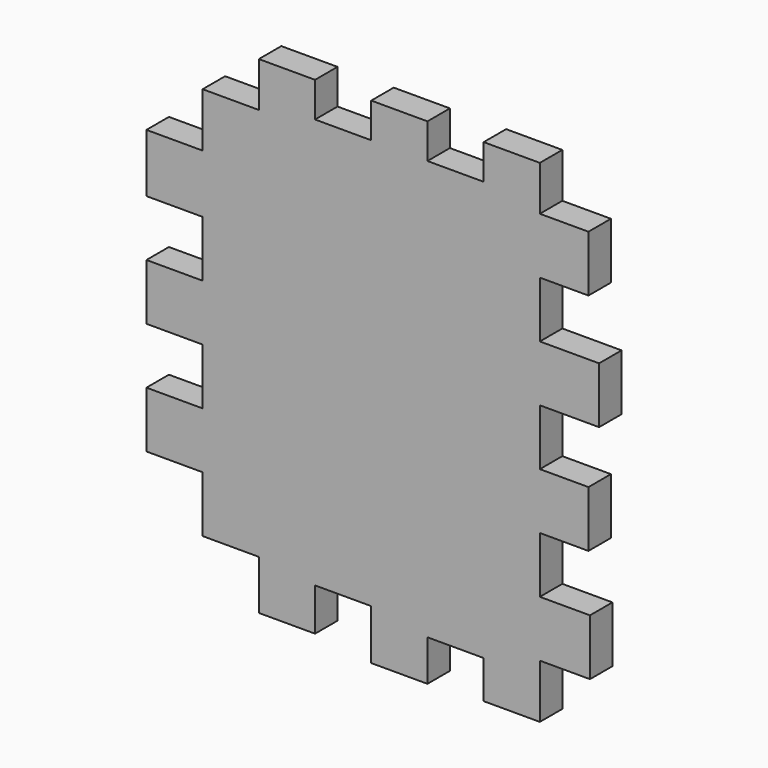
from build123d import *

# Parameters (mm, degrees)
F1_DEPTH = 6.35


with BuildPart() as f1:
    # F0 (on Front) → F1 (new body)
    with BuildSketch(Plane.XZ):
        Polygon((0, 25.4), (0, 35.52567), (-12.7, 35.52567), (-12.7, 27.631078), (-25.4, 27.631078), (-25.4, 35.52567), (-38.1, 35.52567), (-38.1, 27.631078), (-50.8, 27.631078), (-50.8, 35.52567), (-63.5, 35.52567), (-63.5, 25.4), (-76.2, 25.4), (-76.2, 13.182312), (-88.9, 13.182312), (-88.9, 0), (-76.2, 0), (-76.2, -12.7), (-88.9, -12.7), (-88.9, -25.4), (-76.2, -25.4), (-76.2, -38.1), (-88.9, -38.1), (-88.9, -50.8), (-76.2, -50.8), (-76.2, -63.5), (-70.708094, -63.5), (-63.5, -63.5), (-63.5, -74.655393), (-50.8, -74.655393), (-50.8, -65.044586), (-38.1, -65.044586), (-38.1, -76.371606), (-25.4, -76.371606), (-25.4, -67.104045), (-12.7, -67.104045), (-12.7, -75.685122), (0, -75.685122), (0, -63.5), (11.327024, -63.5), (11.327024, -50.8), (0, -50.8), (0, -38.1), (10.983782, -38.1), (10.983782, -25.4), (0, -25.4), (0, -12.7), (13.386483, -12.7), (13.386483, 0), (0, 0), (0, 12.7), (10.983782, 12.7), (10.983782, 25.4), align=None)
    extrude(amount=F1_DEPTH)


solid = f1.part
